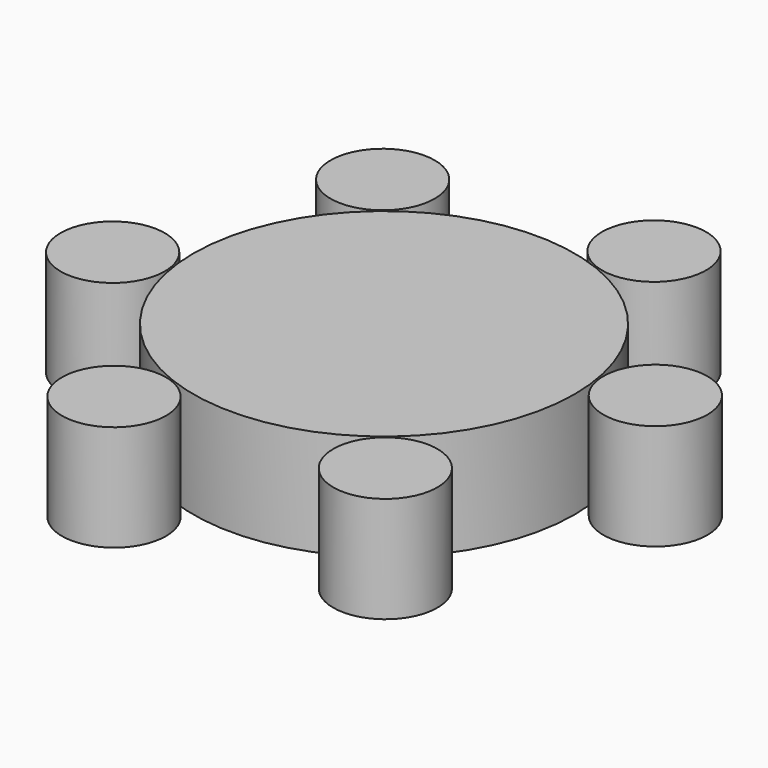
from build123d import *

# Parameters (mm, degrees)
F0_R     = 44.973159
F1_DEPTH = 25
F2_R     = 12.280076
F3_DEPTH = 25
F4_COUNT = 6


with BuildPart() as f1:
    # F0 (on Top) → F1 (new body)
    with BuildSketch(Plane.XY):
        Circle(F0_R)
    extrude(amount=F1_DEPTH)


with BuildPart() as f3:
    # F2 (on Top) → F3 (new body)
    with BuildSketch(Plane.XY):
        with Locations((56.885086, 8.916429)):
            Circle(F2_R)
    extrude(amount=F3_DEPTH)


with BuildPart() as f4_1:
    # F4: instance of F3
    add(f3.part.rotate(Axis((0, 0, 25), (0, 0, 1)), 1 * 360 / F4_COUNT))


with BuildPart() as f4_2:
    # F4: instance of F3
    add(f3.part.rotate(Axis((0, 0, 25), (0, 0, 1)), 2 * 360 / F4_COUNT))


with BuildPart() as f4_3:
    # F4: instance of F3
    add(f3.part.rotate(Axis((0, 0, 25), (0, 0, 1)), 3 * 360 / F4_COUNT))


with BuildPart() as f4_4:
    # F4: instance of F3
    add(f3.part.rotate(Axis((0, 0, 25), (0, 0, 1)), 4 * 360 / F4_COUNT))


with BuildPart() as f4_5:
    # F4: instance of F3
    add(f3.part.rotate(Axis((0, 0, 25), (0, 0, 1)), 5 * 360 / F4_COUNT))


solid = Compound([f1.part, f3.part, f4_1.part, f4_2.part, f4_3.part, f4_4.part, f4_5.part])
